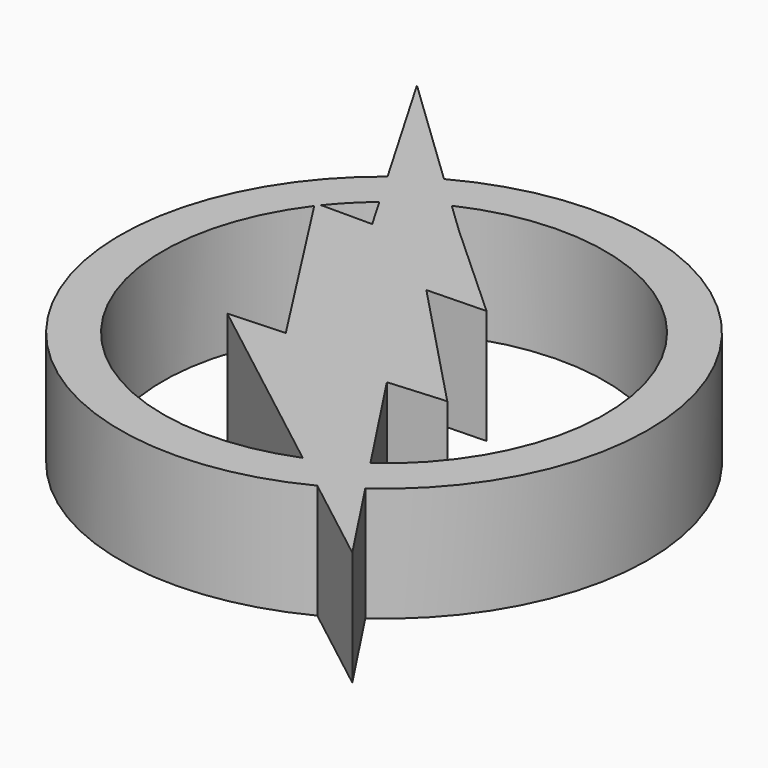
from build123d import *

# Parameters (mm, degrees)
F0_R     = 1118.772052
F1_DEPTH = 485.14
F2_R     = 937.049597
F3_DEPTH = 485.141
F5_DEPTH = 485.14


with BuildPart() as f1:
    # F0 (on Top) → F1 (new body)
    with BuildSketch(Plane.XY):
        with Locations((-116.978705, 21.36628)):
            Circle(F0_R)
    extrude(amount=F1_DEPTH)

    # F2 (on face) → F3 (cut, through all)
    with BuildSketch(Plane.XY.offset(485.14)):
        with Locations((-116.978705, 21.36628)):
            Circle(F2_R)
    extrude(amount=-F3_DEPTH, mode=Mode.SUBTRACT)

    # F4 (on face) → F5 (join)
    with BuildSketch(Plane.XY.offset(485.14)):
        Polygon((-381.39686, 748.548687), (-1139.129914, 1473.365228), (-633.64774, 604.511797), (-876.405072, 604.511797), (-369.615673, -183.483621), (-607.877022, -195.666996), (786.032647, -1275.620681), (112.30468, -250.195295), (353.638202, -231.867895), (-198.447272, 347.404599), (51.197376, 354.344636), align=None)
    extrude(amount=-F5_DEPTH)


solid = f1.part
